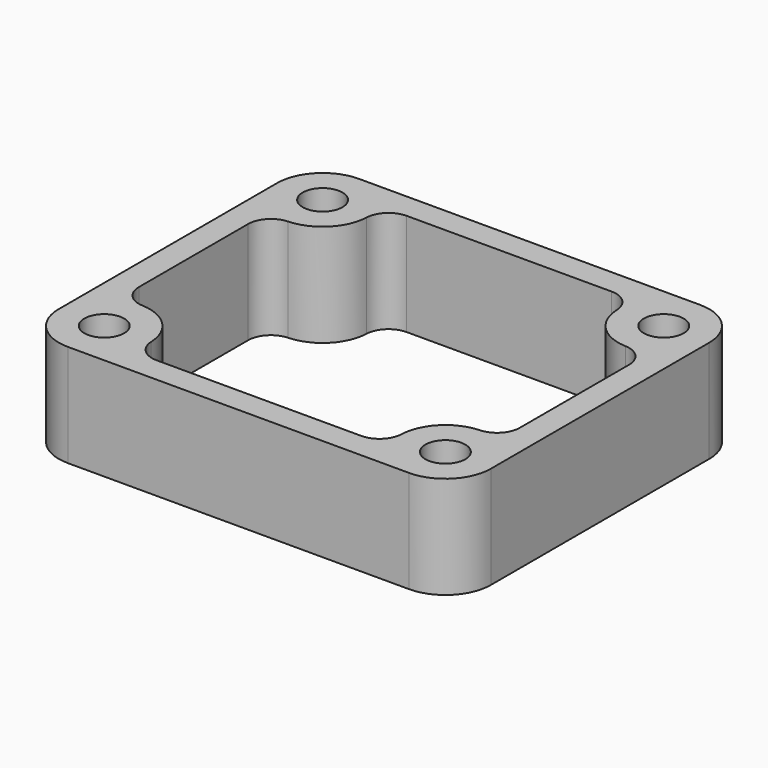
from build123d import *

# Parameters (mm, degrees)
SKETCH_R  = 1.75
PAD_DEPTH = 9
FILLET_R  = 2


with BuildPart() as part:
    # Sketch → Pad (new body)
    with BuildSketch(Plane.XY):
        with BuildLine():
            Line((-15, 16), (15, 16))
            ThreePointArc((19, 12), (17.828427, 14.828427), (15, 16))
            Line((19, 12), (19, -12))
            ThreePointArc((15, -16), (17.828427, -14.828427), (19, -12))
            Line((15, -16), (-15, -16))
            ThreePointArc((-19, -12), (-17.828427, -14.828427), (-15, -16))
            Line((-19, -12), (-19, 12))
            ThreePointArc((-15, 16), (-17.828427, 14.828427), (-19, 12))
        make_face()
        with Locations((-15, 12)):
            Circle(SKETCH_R, mode=Mode.SUBTRACT)
        with Locations((15, 12)):
            Circle(SKETCH_R, mode=Mode.SUBTRACT)
        with Locations((15, -12)):
            Circle(SKETCH_R, mode=Mode.SUBTRACT)
        with Locations((-15, -12)):
            Circle(SKETCH_R, mode=Mode.SUBTRACT)
        with BuildLine():
            Line((-16.75, 8), (-15, 8))
            ThreePointArc((-15, 8), (-12.171573, 9.171573), (-11, 12))
            Line((-11, 12), (-11, 13.75))
            Line((-11, 13.75), (11, 13.75))
            Line((11, 13.75), (11, 12))
            ThreePointArc((11, 12), (12.171573, 9.171573), (15, 8))
            Line((15, 8), (16.75, 8))
            Line((16.75, 8), (16.75, -8))
            Line((15, -8), (16.75, -8))
            ThreePointArc((15, -8), (12.171573, -9.171573), (11, -12))
            Line((11, -13.75), (11, -12))
            Line((11, -13.75), (-11, -13.75))
            Line((-11, -12), (-11, -13.75))
            ThreePointArc((-11, -12), (-12.171573, -9.171573), (-15, -8))
            Line((-16.75, -8), (-15, -8))
            Line((-16.75, -8), (-16.75, 8))
        make_face(mode=Mode.SUBTRACT)
    extrude(amount=PAD_DEPTH)

    # Fillet
    fillet_edges = [part.edges().sort_by_distance(p)[0] for p in [
        (-11, 13.75, 4.5),
        (-16.75, 8, 4.5),
        (11, 13.75, 4.5),
        (16.75, 8, 4.5),
        (16.75, -8, 4.5),
        (11, -13.75, 4.5),
        (-11, -13.75, 4.5),
        (-16.75, -8, 4.5),
    ]]
    fillet(fillet_edges, radius=FILLET_R)


solid = part.part
